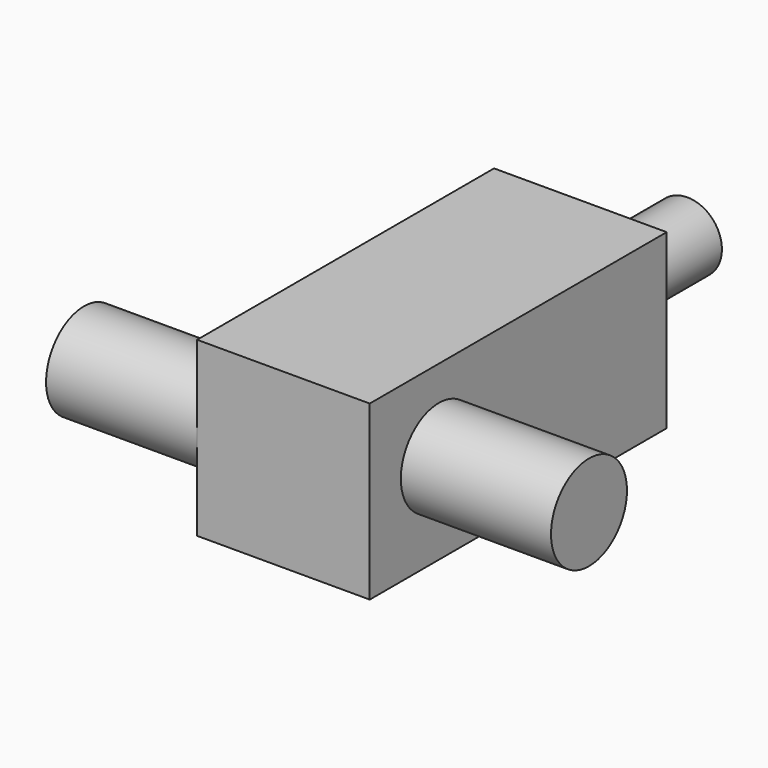
from build123d import *

# Parameters (mm, degrees)
BOX008_W                = 20
BOX008_H                = 43
BOX008_DEPTH            = 20
CYLINDER001_R           = 5.5
CYLINDER001_DEPTH       = 17.4
CYLINDER001_PITCH_ANGLE = 90
CYLINDER002_R           = 4
CYLINDER002_DEPTH       = 15.5
CYLINDER002_ROLL_ANGLE  = -90
CYLINDER_R              = 5.5
CYLINDER_DEPTH          = 17.5
CYLINDER_PITCH_ANGLE    = 90


with BuildPart() as e_valve_body:
    # Box008 → Box008 (new body)
    with BuildSketch(Plane(origin=(24, 0, 0), x_dir=(1, 0, 0), z_dir=(0, 0, 1))):
        with Locations((10, 21.5)):
            Rectangle(BOX008_W, BOX008_H)
    extrude(amount=BOX008_DEPTH)


with BuildPart() as o2out:
    # Cylinder001 → Cylinder001 (new body)
    with BuildSketch(Plane.XY):
        Circle(CYLINDER001_R)
    extrude(amount=CYLINDER001_DEPTH)


with BuildPart() as o2out_1:
    # Cylinder001 pitch: moved
    add(o2out.part.rotate(Axis((0, 0, 0), (0, 1, 0)), CYLINDER001_PITCH_ANGLE))


with BuildPart() as o2out_2:
    # Cylinder001 placement: moved
    add(o2out_1.part.moved(Location((44, 10, 10.5))))


with BuildPart() as o2sense:
    # Cylinder002 → Cylinder002 (new body)
    with BuildSketch(Plane.XY):
        Circle(CYLINDER002_R)
    extrude(amount=CYLINDER002_DEPTH)


with BuildPart() as o2sense_1:
    # Cylinder002 roll: moved
    add(o2sense.part.rotate(Axis((0, 0, 0), (1, 0, 0)), CYLINDER002_ROLL_ANGLE))


with BuildPart() as o2sense_2:
    # Cylinder002 placement: moved
    add(o2sense_1.part.moved(Location((34, 43, 10))))


with BuildPart() as e_valve:
    # Cylinder → Cylinder (new body)
    with BuildSketch(Plane.XY):
        Circle(CYLINDER_R)
    extrude(amount=CYLINDER_DEPTH)


with BuildPart() as e_valve_1:
    # Cylinder pitch: moved
    add(e_valve.part.rotate(Axis((0, 0, 0), (0, 1, 0)), CYLINDER_PITCH_ANGLE))


with BuildPart() as e_valve_2:
    # Cylinder placement: moved
    add(e_valve_1.part.moved(Location((6.5, 5.5, 10))))

    # Fusion: union e-valve body, O2out, O2sense
    add(e_valve_body.part)
    add(o2out_2.part)
    add(o2sense_2.part)


with BuildPart() as e_valve_3:
    # Fusion placement: moved
    add(e_valve_2.part.moved(Location((0, 2.5, 1.1))))


solid = e_valve_3.part
